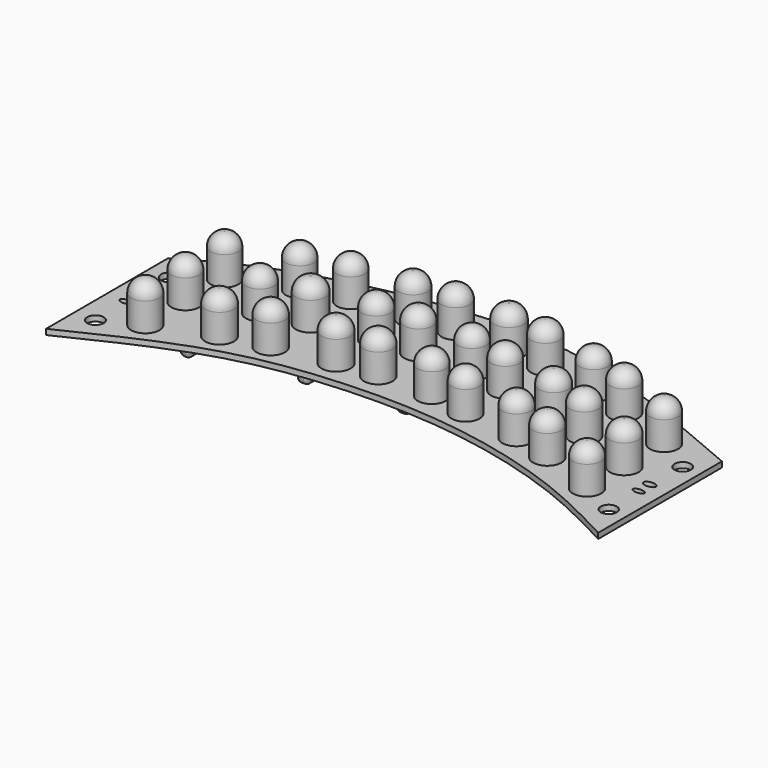
from build123d import *

# Parameters (mm, degrees)
F0_R     = 64.0132926817
F1_DEPTH = 216.72
F0_R_2   = 63.8223184462
F0_R_3   = 62.7506903342
F0_R_4   = 63.0561709404
F0_R_5   = 63.153313588
F0_R_6   = 63.7443266378
F0_R_7   = 67.2115799325
F0_R_8   = 65.3967181148
F0_R_9   = 64.6707154939
F0_R_10  = 65.8646527739
F0_R_11  = 64.7084062407
F0_R_12  = 65.0337248064
F0_R_13  = 64.8003596378
F0_R_14  = 64.6331271439
F0_R_15  = 64.8212250476
F0_R_16  = 63.4587258101
F0_R_17  = 63.5950119166
F0_R_18  = 66.5878138828
F0_R_19  = 64.9421695702
F0_R_20  = 63.8751616988
F0_R_21  = 63.4587109089
F0_R_22  = 65.7956149526
F0_R_23  = 64.5747254256
F0_R_24  = 64.5213564141
F0_R_25  = 64.9969866324
F0_R_26  = 64.8159164936
F0_R_27  = 64.4953220788
F0_R_28  = 64.3401263214
F0_R_29  = 65.5205805912
F0_R_30  = 64.0763019716
F0_R_31  = 37.2600106488
F0_W     = 49.1207838058
F0_H     = 429.1121587157
F0_R_32  = 36.055105936
F0_W_2   = 55.671274662
F0_H_2   = 452.7933895588
F0_R_33  = 37.6827408896
F0_W_3   = 54.6816885471
F0_H_3   = 452.2823542356
F0_W_4   = 54.1571080685
F0_H_4   = 442.9771751165
F0_W_5   = 56.7834215807
F0_H_5   = 445.480640548
F0_R_34  = 36.9780935868
F2_DEPTH = 25
F3_R     = 63
F3_2_R   = 63
F3_3_R   = 63
F3_4_R   = 63
F3_5_R   = 63
F3_6_R   = 63
F3_7_R   = 63
F3_8_R   = 63
F3_9_R   = 63
F3_10_R  = 63
F3_11_R  = 63
F3_12_R  = 63
F3_13_R  = 63
F3_14_R  = 63
F3_15_R  = 63
F3_16_R  = 63
F3_17_R  = 63
F3_18_R  = 63
F3_19_R  = 63
F3_20_R  = 63
F3_21_R  = 63
F3_22_R  = 63
F3_23_R  = 63
F3_24_R  = 63
F3_25_R  = 63
F3_26_R  = 63
F3_27_R  = 63
F3_28_R  = 63
F3_29_R  = 63
F4_R     = 61
F5_DEPTH = 90
F6_R     = 20


with BuildPart() as f1:
    # F0 (on Top) → F1 (new body)
    with BuildSketch(Plane.XY):
        with Locations((-960.2665305138, -23.0460874736)):
            Circle(F0_R)
    extrude(amount=F1_DEPTH)

    # F3#28
    f3_28_edges = [f1.edges().sort_by_distance(p)[0] for p in [
        (-1024.279823, -23.046087, 216.72),
    ]]
    fillet(f3_28_edges, radius=F3_28_R)


with BuildPart() as f1b:
    # F0 (on Top) → F1, piece 2 (new body)
    with BuildSketch(Plane.XY):
        with Locations((-959.5878720284, 202.7509510517)):
            Circle(F0_R_2)
    extrude(amount=F1_DEPTH)

    # F3#29
    f3_29_edges = [f1b.edges().sort_by_distance(p)[0] for p in [
        (-1023.41019, 202.750951, 216.72),
    ]]
    fillet(f3_29_edges, radius=F3_29_R)


with BuildPart() as f1c:
    # F0 (on Top) → F1, piece 3 (new body)
    with BuildSketch(Plane.XY):
        with Locations((-960.2665305138, 425.6908893585)):
            Circle(F0_R_3)
    extrude(amount=F1_DEPTH)

    # F4
    f4_edges = [f1c.edges().sort_by_distance(p)[0] for p in [
        (-1023.017221, 425.690889, 216.72),
    ]]
    fillet(f4_edges, radius=F4_R)


with BuildPart() as f1d:
    # F0 (on Top) → F1, piece 4 (new body)
    with BuildSketch(Plane.XY):
        with Locations((-701.9975185394, 527.8154015541)):
            Circle(F0_R_4)
    extrude(amount=F1_DEPTH)

    # F3#26
    f3_26_edges = [f1d.edges().sort_by_distance(p)[0] for p in [
        (-765.053689, 527.815402, 216.72),
    ]]
    fillet(f3_26_edges, radius=F3_26_R)


with BuildPart() as f1e:
    # F0 (on Top) → F1, piece 5 (new body)
    with BuildSketch(Plane.XY):
        with Locations((-508.1584453583, 574.523627758)):
            Circle(F0_R_5)
    extrude(amount=F1_DEPTH)

    # F3#23
    f3_23_edges = [f1e.edges().sort_by_distance(p)[0] for p in [
        (-571.311759, 574.523628, 216.72),
    ]]
    fillet(f3_23_edges, radius=F3_23_R)


with BuildPart() as f1f:
    # F0 (on Top) → F1, piece 6 (new body)
    with BuildSketch(Plane.XY):
        with Locations((-700.8298039436, 301.2806475163)):
            Circle(F0_R_6)
    extrude(amount=F1_DEPTH)

    # F3#25
    f3_25_edges = [f1f.edges().sort_by_distance(p)[0] for p in [
        (-764.574131, 301.280648, 216.72),
    ]]
    fillet(f3_25_edges, radius=F3_25_R)


with BuildPart() as f1g:
    # F0 (on Top) → F1, piece 7 (new body)
    with BuildSketch(Plane.XY):
        with Locations((-509.3261599541, 349.1565585136)):
            Circle(F0_R_7)
    extrude(amount=F1_DEPTH)

    # F3#22
    f3_22_edges = [f1g.edges().sort_by_distance(p)[0] for p in [
        (-576.53774, 349.156559, 216.72),
    ]]
    fillet(f3_22_edges, radius=F3_22_R)


with BuildPart() as f1h:
    # F0 (on Top) → F1, piece 8 (new body)
    with BuildSketch(Plane.XY):
        with Locations((-702.1841406822, 74.4799748063)):
            Circle(F0_R_8)
    extrude(amount=F1_DEPTH)

    # F3#27
    f3_27_edges = [f1h.edges().sort_by_distance(p)[0] for p in [
        (-767.580859, 74.479975, 216.72),
    ]]
    fillet(f3_27_edges, radius=F3_27_R)


with BuildPart() as f1i:
    # F0 (on Top) → F1, piece 9 (new body)
    with BuildSketch(Plane.XY):
        with Locations((-508.9289546013, 122.3558858037)):
            Circle(F0_R_9)
    extrude(amount=F1_DEPTH)

    # F3#24
    f3_24_edges = [f1i.edges().sort_by_distance(p)[0] for p in [
        (-573.59967, 122.355886, 216.72),
    ]]
    fillet(f3_24_edges, radius=F3_24_R)


with BuildPart() as f1j:
    # F0 (on Top) → F1, piece 10 (new body)
    with BuildSketch(Plane.XY):
        with Locations((-251.5411376953, 170.660585165)):
            Circle(F0_R_10)
    extrude(amount=F1_DEPTH)

    # F3#21
    f3_21_edges = [f1j.edges().sort_by_distance(p)[0] for p in [
        (-317.40579, 170.660585, 216.72),
    ]]
    fillet(f3_21_edges, radius=F3_21_R)


with BuildPart() as f1k:
    # F0 (on Top) → F1, piece 11 (new body)
    with BuildSketch(Plane.XY):
        with Locations((-251.2779831886, 397.9750573635)):
            Circle(F0_R_11)
    extrude(amount=F1_DEPTH)

    # F3#20
    f3_20_edges = [f1k.edges().sort_by_distance(p)[0] for p in [
        (-315.986389, 397.975057, 216.72),
    ]]
    fillet(f3_20_edges, radius=F3_20_R)


with BuildPart() as f1l:
    # F0 (on Top) → F1, piece 12 (new body)
    with BuildSketch(Plane.XY):
        with Locations((-251.2779831886, 606.0364246368)):
            Circle(F0_R_12)
    extrude(amount=F1_DEPTH)

    # F3#2
    f3_2_edges = [f1l.edges().sort_by_distance(p)[0] for p in [
        (-316.311708, 606.036425, 216.72),
    ]]
    fillet(f3_2_edges, radius=F3_2_R)


with BuildPart() as f1m:
    # F0 (on Top) → F1, piece 13 (new body)
    with BuildSketch(Plane.XY):
        with Locations((-72.3452046514, 623.7216591835)):
            Circle(F0_R_13)
    extrude(amount=F1_DEPTH)

    # F3
    f3_edges = [f1m.edges().sort_by_distance(p)[0] for p in [
        (-137.145564, 623.721659, 216.72),
    ]]
    fillet(f3_edges, radius=F3_R)


with BuildPart() as f1n:
    # F0 (on Top) → F1, piece 14 (new body)
    with BuildSketch(Plane.XY):
        with Locations((-73.3855068684, 413.5796427727)):
            Circle(F0_R_14)
    extrude(amount=F1_DEPTH)

    # F3#19
    f3_19_edges = [f1n.edges().sort_by_distance(p)[0] for p in [
        (-138.018634, 413.579643, 216.72),
    ]]
    fillet(f3_19_edges, radius=F3_19_R)


with BuildPart() as f1o:
    # F0 (on Top) → F1, piece 15 (new body)
    with BuildSketch(Plane.XY):
        with Locations((-73.5239833593, 186.8439465761)):
            Circle(F0_R_15)
    extrude(amount=F1_DEPTH)

    # F3#18
    f3_18_edges = [f1o.edges().sort_by_distance(p)[0] for p in [
        (-138.345208, 186.843947, 216.72),
    ]]
    fillet(f3_18_edges, radius=F3_18_R)


with BuildPart() as f1p:
    # F0 (on Top) → F1, piece 16 (new body)
    with BuildSketch(Plane.XY):
        with Locations((169.0059900284, 186.7927163839)):
            Circle(F0_R_16)
    extrude(amount=F1_DEPTH)

    # F3#17
    f3_17_edges = [f1p.edges().sort_by_distance(p)[0] for p in [
        (105.547264, 186.792716, 216.72),
    ]]
    fillet(f3_17_edges, radius=F3_17_R)


with BuildPart() as f1q:
    # F0 (on Top) → F1, piece 17 (new body)
    with BuildSketch(Plane.XY):
        with Locations((169.0059900284, 414.6199226379)):
            Circle(F0_R_17)
    extrude(amount=F1_DEPTH)

    # F3#16
    f3_16_edges = [f1q.edges().sort_by_distance(p)[0] for p in [
        (105.410978, 414.619923, 216.72),
    ]]
    fillet(f3_16_edges, radius=F3_16_R)


with BuildPart() as f1r:
    # F0 (on Top) → F1, piece 18 (new body)
    with BuildSketch(Plane.XY):
        with Locations((169.0059900284, 623.7216591835)):
            Circle(F0_R_18)
    extrude(amount=F1_DEPTH)

    # F3#3
    f3_3_edges = [f1r.edges().sort_by_distance(p)[0] for p in [
        (102.418176, 623.721659, 216.72),
    ]]
    fillet(f3_3_edges, radius=F3_3_R)


with BuildPart() as f1s:
    # F0 (on Top) → F1, piece 19 (new body)
    with BuildSketch(Plane.XY):
        with Locations((345.8581864834, 608.117043972)):
            Circle(F0_R_19)
    extrude(amount=F1_DEPTH)

    # F3#4
    f3_4_edges = [f1s.edges().sort_by_distance(p)[0] for p in [
        (280.916017, 608.117044, 216.72),
    ]]
    fillet(f3_4_edges, radius=F3_4_R)


with BuildPart() as f1t:
    # F0 (on Top) → F1, piece 20 (new body)
    with BuildSketch(Plane.XY):
        with Locations((345.8581864834, 381.3301026821)):
            Circle(F0_R_20)
    extrude(amount=F1_DEPTH)

    # F3#15
    f3_15_edges = [f1t.edges().sort_by_distance(p)[0] for p in [
        (281.983025, 381.330103, 216.72),
    ]]
    fillet(f3_15_edges, radius=F3_15_R)


with BuildPart() as f1u:
    # F0 (on Top) → F1, piece 21 (new body)
    with BuildSketch(Plane.XY):
        with Locations((346.898496151, 155.5835008621)):
            Circle(F0_R_21)
    extrude(amount=F1_DEPTH)

    # F3#14
    f3_14_edges = [f1u.edges().sort_by_distance(p)[0] for p in [
        (283.439785, 155.583501, 216.72),
    ]]
    fillet(f3_14_edges, radius=F3_14_R)


with BuildPart() as f1v:
    # F0 (on Top) → F1, piece 22 (new body)
    with BuildSketch(Plane.XY):
        with Locations((604.2323112488, 332.6369524002)):
            Circle(F0_R_22)
    extrude(amount=F1_DEPTH)

    # F3#10
    f3_10_edges = [f1v.edges().sort_by_distance(p)[0] for p in [
        (538.436696, 332.636952, 216.72),
    ]]
    fillet(f3_10_edges, radius=F3_10_R)


with BuildPart() as f1w:
    # F0 (on Top) → F1, piece 23 (new body)
    with BuildSketch(Plane.XY):
        with Locations((605.1070690155, 557.4581027031)):
            Circle(F0_R_23)
    extrude(amount=F1_DEPTH)

    # F3#5
    f3_5_edges = [f1w.edges().sort_by_distance(p)[0] for p in [
        (540.532344, 557.458103, 216.72),
    ]]
    fillet(f3_5_edges, radius=F3_5_R)


with BuildPart() as f1x:
    # F0 (on Top) → F1, piece 24 (new body)
    with BuildSketch(Plane.XY):
        with Locations((781.8147540092, 509.344637394)):
            Circle(F0_R_24)
    extrude(amount=F1_DEPTH)

    # F3#6
    f3_6_edges = [f1x.edges().sort_by_distance(p)[0] for p in [
        (717.293398, 509.344637, 216.72),
    ]]
    fillet(f3_6_edges, radius=F3_6_R)


with BuildPart() as f1y:
    # F0 (on Top) → F1, piece 25 (new body)
    with BuildSketch(Plane.XY):
        with Locations((781.4246416092, 283.6807370186)):
            Circle(F0_R_25)
    extrude(amount=F1_DEPTH)

    # F3#9
    f3_9_edges = [f1y.edges().sort_by_distance(p)[0] for p in [
        (716.427655, 283.680737, 216.72),
    ]]
    fillet(f3_9_edges, radius=F3_9_R)


with BuildPart() as f1z:
    # F0 (on Top) → F1, piece 26 (new body)
    with BuildSketch(Plane.XY):
        with Locations((604.628264904, 122.5485280156)):
            Circle(F0_R_26)
    extrude(amount=F1_DEPTH)

    # F3#13
    f3_13_edges = [f1z.edges().sort_by_distance(p)[0] for p in [
        (539.812348, 122.548528, 216.72),
    ]]
    fillet(f3_13_edges, radius=F3_13_R)


with BuildPart() as f1ba:
    # F0 (on Top) → F1, piece 27 (new body)
    with BuildSketch(Plane.XY):
        with Locations((782.846570015, 73.4525769949)):
            Circle(F0_R_27)
    extrude(amount=F1_DEPTH)

    # F3#11
    f3_11_edges = [f1ba.edges().sort_by_distance(p)[0] for p in [
        (718.351248, 73.452577, 216.72),
    ]]
    fillet(f3_11_edges, radius=F3_11_R)


with BuildPart() as f1bb:
    # F0 (on Top) → F1, piece 28 (new body)
    with BuildSketch(Plane.XY):
        with Locations((1040.1153564453, -23.2549216598)):
            Circle(F0_R_28)
    extrude(amount=F1_DEPTH)

    # F3#12
    f3_12_edges = [f1bb.edges().sort_by_distance(p)[0] for p in [
        (975.77523, -23.254922, 216.72),
    ]]
    fillet(f3_12_edges, radius=F3_12_R)


with BuildPart() as f1bc:
    # F0 (on Top) → F1, piece 29 (new body)
    with BuildSketch(Plane.XY):
        with Locations((1040.1092767715, 187.3551756144)):
            Circle(F0_R_29)
    extrude(amount=F1_DEPTH)

    # F3#8
    f3_8_edges = [f1bc.edges().sort_by_distance(p)[0] for p in [
        (974.588696, 187.355176, 216.72),
    ]]
    fillet(f3_8_edges, radius=F3_8_R)


with BuildPart() as f1bd:
    # F0 (on Top) → F1, piece 30 (new body)
    with BuildSketch(Plane.XY):
        with Locations((1040.0507450104, 412.9097163677)):
            Circle(F0_R_30)
    extrude(amount=F1_DEPTH)

    # F3#7
    f3_7_edges = [f1bd.edges().sort_by_distance(p)[0] for p in [
        (975.974443, 412.909716, 216.72),
    ]]
    fillet(f3_7_edges, radius=F3_7_R)


with BuildPart() as f2:
    # F0 (on Top) → F2 (new body)
    with BuildSketch(Plane.XY):
        with BuildLine():
            add(Edge.make_bspline(
                [(1283.8407128121, 435.5341792107), (1016.3868585252, 550.2366360308), (513.2514349423, 766.1102636237), (-132.8899963334, 793.4755415169), (-844.27654859, 637.5283805298), (-1104.1965588996, 490.5331890379), (-1217.0550823212, 426.706880331)],
                knots=[0, 0, 0, 0, 0.2846022646, 0.5355654988, 0.7983478195, 1, 1, 1, 1], degree=3))
            add(Edge.make_bspline(
                [(-1217.0550823212, 426.706880331), (-1217.0550823212, 195.2355404695), (-1216.3055092356, -33.1953360732), (-1216.3055092356, -264.6666759348)],
                knots=[0, 0, 0, 0, 691.3739626016, 691.3739626016, 691.3739626016, 691.3739626016], degree=3))
            add(Edge.make_bspline(
                [(-1216.3055092356, -264.6666759348), (-1036.0889312922, -176.9309703822), (-690.8329842602, -8.8483530405), (-203.4240123284, 75.3830380332), (371.6610974506, 73.6624899686), (917.726661549, -72.2231181153), (1168.582901066, -204.0827587582), (1283.8407128121, -264.6666759348)],
                knots=[0, 0, 0, 0, 0.2115711088, 0.40532444, 0.6153514834, 0.8232703065, 1, 1, 1, 1], degree=3))
            add(Edge.make_bspline(
                [(1283.8407128121, -264.6666759348), (1283.8407128121, -30.2529031134), (1283.8407128121, 201.1204063892), (1283.8407128121, 435.5341792107)],
                knots=[0, 0, 0, 0, 700.2008551455, 700.2008551455, 700.2008551455, 700.2008551455], degree=3))
        make_face()
        with Locations((-1121.3799715042, -104.0024831891)):
            Circle(F0_R_31, mode=Mode.SUBTRACT)
        with BuildLine():
            ThreePointArc((-915.0942446483, 44.475439601), (-962.2314730284, -105.392746685), (-1009.3647386743, 44.4766859208))
            add(Edge.make_bspline(
                [(-1009.3647386743, 44.4766859208), (-977.942196258, 44.4749016149), (-946.5167870646, 44.4772239068), (-915.0942446483, 44.475439601)],
                knots=[0, 0, 0, 0, 94.2704940343, 94.2704940343, 94.2704940343, 94.2704940343], degree=3))
        make_face(mode=Mode.SUBTRACT)
        with BuildLine():
            add(Edge.make_bspline(
                [(-1100.7257699966, 74.1642266512), (-1100.7257699966, 98.4071283266), (-1140.0913000107, 86.2856774889), (-1179.4568300247, 74.1642266512), (-1140.0913000107, 62.0427758135), (-1100.7257699966, 49.9213249758), (-1100.7257699966, 74.1642266512)],
                knots=[0, 0, 0, 2.0943951024, 2.0943951024, 4.1887902048, 4.1887902048, 6.2831853072, 6.2831853072, 6.2831853072], degree=2, weights=[1, 0.5, 1, 0.5, 1, 0.5, 1]))
        make_face(mode=Mode.SUBTRACT)
        with BuildLine():
            ThreePointArc((-657.7673292866, 141.7385384937), (-702.8556517011, -6.1185152341), (-745.4741266331, 142.4692727893))
            add(Edge.make_bspline(
                [(-745.4741266331, 142.4692727893), (-716.2643594014, 142.2289448193), (-686.9770965182, 141.9788664637), (-657.7673292866, 141.7385384937)],
                knots=[0, 0, 0, 0, 87.7098413714, 87.7098413714, 87.7098413714, 87.7098413714], degree=3))
        make_face(mode=Mode.SUBTRACT)
        with BuildLine():
            add(Edge.make_bspline(
                [(-1152.338385582, 137.1491253376), (-1152.338385582, 112.6549690962), (-1115.597307682, 124.9020472169), (-1078.8562297821, 137.1491253376), (-1115.597307682, 149.3962034583), (-1152.338385582, 161.643281579), (-1152.338385582, 137.1491253376)],
                knots=[0, 0, 0, 2.0943951024, 2.0943951024, 4.1887902048, 4.1887902048, 6.2831853072, 6.2831853072, 6.2831853072], degree=2, weights=[1, 0.5, 1, 0.5, 1, 0.5, 1]))
        make_face(mode=Mode.SUBTRACT)
        with BuildLine():
            ThreePointArc((-910.9272825709, 267.2964743901), (-958.8842479073, 121.9209908731), (-1009.3647386743, 266.4395771657))
            add(Edge.make_bspline(
                [(-1009.3647386743, 266.4395771657), (-976.582243434, 266.7248772299), (-943.7097778112, 267.011174326), (-910.9272825709, 267.2964743901)],
                knots=[0, 0, 0, 0, 98.4411856743, 98.4411856743, 98.4411856743, 98.4411856743], degree=3))
        make_face(mode=Mode.SUBTRACT)
        with Locations((-831.3868641853, 249.4064755738)):
            Rectangle(F0_W, F0_H, mode=Mode.SUBTRACT)
        with BuildLine():
            ThreePointArc((-463.4454991508, 190.7046285699), (-508.8612271714, 40.256611931), (-554.52511605, 190.6294928461))
            add(Edge.make_bspline(
                [(-554.52511605, 190.6294928461), (-524.18759384, 190.6537494288), (-493.7830213609, 190.6803719872), (-463.4454991508, 190.7046285699)],
                knots=[0, 0, 0, 0, 91.0796478906, 91.0796478906, 91.0796478906, 91.0796478906], degree=3))
        make_face(mode=Mode.SUBTRACT)
        with BuildLine():
            ThreePointArc((-209.3161905169, 240.1476238692), (-251.3872944521, 89.3502472962), (-294.0287275499, 239.9873434942))
            add(Edge.make_bspline(
                [(-294.0287275499, 239.9873434942), (-265.8127864446, 240.0424099425), (-237.5321316222, 240.0925574209), (-209.3161905169, 240.1476238692)],
                knots=[0, 0, 0, 0, 84.7126886622, 84.7126886622, 84.7126886622, 84.7126886622], degree=3))
        make_face(mode=Mode.SUBTRACT)
        with BuildLine():
            ThreePointArc((-34.1275583459, 256.7837082165), (-72.9801149483, 106.5734490736), (-113.8644940546, 256.2434549245))
            add(Edge.make_bspline(
                [(-34.1275583459, 256.7837082165), (-60.6995365278, 256.6102426127), (-87.2925158727, 256.4169205282), (-113.8644940546, 256.2434549245)],
                knots=[0, 0, 0, 0, 79.7387659162, 79.7387659162, 79.7387659162, 79.7387659162], degree=3))
        make_face(mode=Mode.SUBTRACT)
        with Locations((1201.4852762222, -101.975813508)):
            Circle(F0_R_32, mode=Mode.SUBTRACT)
        with BuildLine():
            ThreePointArc((1084.4869911079, 44.8468718824), (1039.508705346, -104.5342438811), (996.7652024008, 45.5016081437))
            add(Edge.make_bspline(
                [(996.7652024008, 45.5016081437), (1025.9789021504, 45.2845050115), (1055.2732913583, 45.0639750146), (1084.4869911079, 44.8468718824)],
                knots=[0, 0, 0, 0, 87.7242320773, 87.7242320773, 87.7242320773, 87.7242320773], degree=3))
        make_face(mode=Mode.SUBTRACT)
        with BuildLine():
            ThreePointArc((645.7842256927, 190.4766901922), (605.0272080715, 43.1263071358), (562.7919826376, 190.0598145628))
            add(Edge.make_bspline(
                [(562.7919826376, 190.0598145628), (590.4342860422, 190.2026184906), (618.1419222881, 190.3338862645), (645.7842256927, 190.4766901922)],
                knots=[0, 0, 0, 0, 82.9932900457, 82.9932900457, 82.9932900457, 82.9932900457], degree=3))
        make_face(mode=Mode.SUBTRACT)
        with BuildLine():
            ThreePointArc((211.4439205163, 254.7628826274), (168.7622930835, 106.6624346231), (126.982270515, 255.0197523853))
            add(Edge.make_bspline(
                [(126.982270515, 255.0197523853), (155.1115548783, 254.9325242294), (183.314636153, 254.8501107833), (211.4439205163, 254.7628826274)],
                knots=[0, 0, 0, 0, 84.4620406042, 84.4620406042, 84.4620406042, 84.4620406042], degree=3))
        make_face(mode=Mode.SUBTRACT)
        with BuildLine():
            ThreePointArc((393.5392336861, 223.8527258276), (345.113325083, 74.2062757682), (299.4000117474, 224.703523661))
            add(Edge.make_bspline(
                [(299.4000117474, 224.703523661), (330.7772096941, 224.4365333762), (362.1620357394, 224.1197161123), (393.5392336861, 223.8527258276)],
                knots=[0, 0, 0, 0, 94.143066469, 94.143066469, 94.143066469, 94.143066469], degree=3))
        make_face(mode=Mode.SUBTRACT)
        with BuildLine():
            ThreePointArc((825.7117021797, 141.4856976419), (783.1109044233, -6.9579645266), (739.5350771418, 141.2024083273))
            add(Edge.make_bspline(
                [(825.7117021797, 141.4856976419), (797.0133055911, 141.3911026909), (768.2334737304, 141.2970032782), (739.5350771418, 141.2024083273)],
                knots=[0, 0, 0, 0, 86.1770906666, 86.1770906666, 86.1770906666, 86.1770906666], degree=3))
        make_face(mode=Mode.SUBTRACT)
        with BuildLine():
            add(Edge.make_bspline(
                [(1222.348690033, 73.8826990128), (1222.348690033, 95.9450755784), (1183.3786964417, 84.9138872956), (1144.4087028503, 73.8826990128), (1183.3786964417, 62.85151073), (1222.348690033, 51.8203224472), (1222.348690033, 73.8826990128)],
                knots=[0, 0, 0, 2.0943951024, 2.0943951024, 4.1887902048, 4.1887902048, 6.2831853072, 6.2831853072, 6.2831853072], degree=2, weights=[1, 0.5, 1, 0.5, 1, 0.5, 1]))
        make_face(mode=Mode.SUBTRACT)
        with Locations((908.7335765362, 238.4223788977)):
            Rectangle(F0_W_2, F0_H_2, mode=Mode.SUBTRACT)
        with BuildLine():
            ThreePointArc((996.0892186715, 118.0308835056), (1039.8264120947, 269.4742536601), (1084.6058689733, 118.3357850495))
            add(Edge.make_bspline(
                [(996.0892186715, 118.0308835056), (1025.566915199, 118.1321132733), (1055.1281724458, 118.2345552818), (1084.6058689733, 118.3357850495)],
                knots=[0, 0, 0, 0, 88.5171754272, 88.5171754272, 88.5171754272, 88.5171754272], degree=3))
        make_face(mode=Mode.SUBTRACT)
        with BuildLine():
            add(Edge.make_bspline(
                [(1223.5858440399, 138.21400702), (1223.5858440399, 166.0702869689), (1180.9045672417, 152.1421469944), (1138.2232904434, 138.21400702), (1180.9045672417, 124.2858670456), (1223.5858440399, 110.3577270711), (1223.5858440399, 138.21400702)],
                knots=[0, 0, 0, 2.0943951024, 2.0943951024, 4.1887902048, 4.1887902048, 6.2831853072, 6.2831853072, 6.2831853072], degree=2, weights=[1, 0.5, 1, 0.5, 1, 0.5, 1]))
        make_face(mode=Mode.SUBTRACT)
        with Locations((-1121.6667890549, 314.9181604385)):
            Circle(F0_R_33, mode=Mode.SUBTRACT)
        with BuildLine():
            ThreePointArc((-739.4739038097, 232.6260775198), (-700.4790957422, 380.063218175), (-662.7984683943, 232.2847494339))
            add(Edge.make_bspline(
                [(-739.4739038097, 232.6260775198), (-713.9170139002, 232.5399488686), (-688.3553583039, 232.3708780851), (-662.7984683943, 232.2847494339)],
                knots=[0, 0, 0, 0, 76.676195139, 76.676195139, 76.676195139, 76.676195139], degree=3))
        make_face(mode=Mode.SUBTRACT)
        with BuildLine():
            ThreePointArc((-1003.019948857, 361.2967795257), (-957.8935634497, 507.6725312157), (-914.2662717073, 360.8430016314))
            add(Edge.make_bspline(
                [(-1003.019948857, 361.2967795257), (-973.4568414704, 361.1503362399), (-943.8293790939, 360.9894449172), (-914.2662717073, 360.8430016314)],
                knots=[0, 0, 0, 0, 88.7548371751, 88.7548371751, 88.7548371751, 88.7548371751], degree=3))
        make_face(mode=Mode.SUBTRACT)
        with BuildLine():
            ThreePointArc((-469.178255851, 417.9113689398), (-508.6304744528, 269.5412698921), (-550.6694132107, 417.1992919299))
            add(Edge.make_bspline(
                [(-550.6694132107, 417.1992919299), (-523.5184168236, 417.4484706508), (-496.3292522381, 417.6621902189), (-469.178255851, 417.9113689398)],
                knots=[0, 0, 0, 0, 81.4942683966, 81.4942683966, 81.4942683966, 81.4942683966], degree=3))
        make_face(mode=Mode.SUBTRACT)
        with Locations((-380.0313025713, 362.9404678941)):
            Rectangle(F0_W_3, F0_H_3, mode=Mode.SUBTRACT)
        with BuildLine():
            ThreePointArc((-292.307542918, 327.4755834133), (-251.5386379239, 479.5442467548), (-209.7987031647, 327.7392408057))
            add(Edge.make_bspline(
                [(-292.307542918, 327.4755834133), (-264.7999959574, 327.5488474484), (-237.3062501252, 327.6659767706), (-209.7987031647, 327.7392408057)],
                knots=[0, 0, 0, 0, 82.5092610115, 82.5092610115, 82.5092610115, 82.5092610115], degree=3))
        make_face(mode=Mode.SUBTRACT)
        with BuildLine():
            ThreePointArc((-29.6115466299, 483.2603946628), (-73.015831929, 331.2909429447), (-117.7837572593, 482.8642885548))
            add(Edge.make_bspline(
                [(-29.6115466299, 483.2603946628), (-58.9746527444, 483.1281015509), (-88.4206511448, 482.9965816667), (-117.7837572593, 482.8642885548)],
                knots=[0, 0, 0, 0, 88.1731003613, 88.1731003613, 88.1731003613, 88.1731003613], degree=3))
        make_face(mode=Mode.SUBTRACT)
        with BuildLine():
            ThreePointArc((-750.1988851493, 461.8005398635), (-702.0475405571, 609.5548119073), (-653.715389913, 461.8595848099))
            add(Edge.make_bspline(
                [(-750.1988851493, 461.8005398635), (-718.0596701342, 461.8208029502), (-685.8546049281, 461.8393217232), (-653.715389913, 461.8595848099)],
                knots=[0, 0, 0, 0, 96.4835133031, 96.4835133031, 96.4835133031, 96.4835133031], degree=3))
        make_face(mode=Mode.SUBTRACT)
        with BuildLine():
            ThreePointArc((-554.7658118633, 507.577326019), (-509.2762654777, 656.0883530211), (-459.7339696103, 508.8797089414))
            add(Edge.make_bspline(
                [(-554.7658118633, 507.577326019), (-523.0991250825, 508.0310374704), (-491.4006563911, 508.4259974901), (-459.7339696103, 508.8797089414)],
                knots=[0, 0, 0, 0, 95.0407662179, 95.0407662179, 95.0407662179, 95.0407662179], degree=3))
        make_face(mode=Mode.SUBTRACT)
        with BuildLine():
            ThreePointArc((-295.8527599181, 537.6478929338), (-251.5989287396, 689.5823752298), (-206.1644091517, 537.9967792309))
            add(Edge.make_bspline(
                [(-295.8527599181, 537.6478929338), (-265.9840522739, 537.7627638074), (-236.0331167959, 537.8819083574), (-206.1644091517, 537.9967792309)],
                knots=[0, 0, 0, 0, 89.689029345, 89.689029345, 89.689029345, 89.689029345], degree=3))
        make_face(mode=Mode.SUBTRACT)
        with BuildLine():
            ThreePointArc((9.198949988, 622.7683085378), (-2.024393632, 582.4258776691), (-31.7889639752, 552.9717519361))
            add(Edge.make_bspline(
                [(-31.7889639752, 552.9717519361), (-59.4427912247, 553.3620303954), (-87.1228019384, 553.6899257918), (-114.7766291879, 554.0802042511)],
                knots=[0, 0, 0, 0, 82.9950675884, 82.9950675884, 82.9950675884, 82.9950675884], degree=3))
            ThreePointArc((-114.7766291879, 554.0802042511), (-111.8669117457, 695.0546298328), (9.198949988, 622.7683085378))
        make_face(mode=Mode.SUBTRACT)
        with BuildLine():
            ThreePointArc((392.451521857, 449.4366821381), (345.3654356991, 298.8122121183), (300.0815338061, 449.9882641496))
            add(Edge.make_bspline(
                [(300.0815338061, 449.9882641496), (330.853856141, 449.8118100576), (361.6791995221, 449.6131362301), (392.451521857, 449.4366821381)],
                knots=[0, 0, 0, 0, 92.3716349062, 92.3716349062, 92.3716349062, 92.3716349062], degree=3))
        make_face(mode=Mode.SUBTRACT)
        with Locations((474.9377518892, 368.2261183858)):
            Rectangle(F0_W_4, F0_H_4, mode=Mode.SUBTRACT)
        with BuildLine():
            ThreePointArc((565.8127825908, 263.0761305622), (602.6131254547, 413.325437627), (642.209370826, 263.7886299144))
            add(Edge.make_bspline(
                [(565.8127825908, 263.0761305622), (591.25988519, 263.3051736449), (616.7622682268, 263.5595868317), (642.209370826, 263.7886299144)],
                knots=[0, 0, 0, 0, 76.399910663, 76.399910663, 76.399910663, 76.399910663], degree=3))
        make_face(mode=Mode.SUBTRACT)
        with Locations((37.5906607783, 400.0279882637)):
            Rectangle(F0_W_5, F0_H_5, mode=Mode.SUBTRACT)
        with BuildLine():
            ThreePointArc((128.0998907459, 344.5334538456), (168.9017961624, 495.7704692161), (210.0919302601, 344.6387281528))
            add(Edge.make_bspline(
                [(210.0919302601, 344.6387281528), (182.7622488396, 344.5917712101), (155.4295721664, 344.5804107883), (128.0998907459, 344.5334538456)],
                knots=[0, 0, 0, 0, 81.9921070981, 81.9921070981, 81.9921070981, 81.9921070981], degree=3))
        make_face(mode=Mode.SUBTRACT)
        with BuildLine():
            ThreePointArc((827.9769505254, 351.3887411154), (781.1851469024, 201.5136272575), (735.2678210334, 351.6589629335))
            add(Edge.make_bspline(
                [(735.2678210334, 351.6589629335), (766.1691505054, 351.5900164908), (797.0756210534, 351.4576875582), (827.9769505254, 351.3887411154)],
                knots=[0, 0, 0, 0, 92.7095233026, 92.7095233026, 92.7095233026, 92.7095233026], degree=3))
        make_face(mode=Mode.SUBTRACT)
        with Locations((1201.8840312958, 315.8702850342)):
            Circle(F0_R_34, mode=Mode.SUBTRACT)
        with BuildLine():
            ThreePointArc((737.179776608, 440.6494267053), (781.7433665224, 591.2672111023), (826.5693858083, 440.7273209811))
            add(Edge.make_bspline(
                [(737.179776608, 440.6494267053), (766.9494045039, 440.6749890242), (796.7997579123, 440.7017586622), (826.5693858083, 440.7273209811)],
                knots=[0, 0, 0, 0, 89.3896431389, 89.3896431389, 89.3896431389, 89.3896431389], degree=3))
        make_face(mode=Mode.SUBTRACT)
        with BuildLine():
            ThreePointArc((997.2210304956, 344.5947110564), (1040.1376475604, 493.5404601572), (1082.7331025118, 344.5025474874))
            add(Edge.make_bspline(
                [(997.2210304956, 344.5947110564), (1025.6989265645, 344.5635988829), (1054.2552064429, 344.5336596608), (1082.7331025118, 344.5025474874)],
                knots=[0, 0, 0, 0, 85.5121216824, 85.5121216824, 85.5121216824, 85.5121216824], degree=3))
        make_face(mode=Mode.SUBTRACT)
        with BuildLine():
            ThreePointArc((126.416261006, 553.2186736167), (169.2061808625, 706.0898321368), (211.2525114843, 553.0124842703))
            add(Edge.make_bspline(
                [(126.416261006, 553.2186736167), (154.6779095353, 553.1469477283), (182.990862955, 553.0842101587), (211.2525114843, 553.0124842703)],
                knots=[0, 0, 0, 0, 84.8365010433, 84.8365010433, 84.8365010433, 84.8365010433], degree=3))
        make_face(mode=Mode.SUBTRACT)
        with BuildLine():
            ThreePointArc((301.9219205525, 536.4845959923), (344.4461529394, 692.1385247301), (392.1766180621, 538.001382643))
            add(Edge.make_bspline(
                [(301.9219205525, 536.4845959923), (331.9824122671, 536.9899782005), (362.1161263475, 537.4960004349), (392.1766180621, 538.001382643)],
                knots=[0, 0, 0, 0, 90.2674418841, 90.2674418841, 90.2674418841, 90.2674418841], degree=3))
        make_face(mode=Mode.SUBTRACT)
        with BuildLine():
            ThreePointArc((564.68211074, 488.6963134616), (604.5547846607, 637.2205994874), (646.4803340903, 489.2626934125))
            add(Edge.make_bspline(
                [(564.68211074, 488.6963134616), (591.9341501252, 488.8940853296), (619.2282947051, 489.0649215444), (646.4803340903, 489.2626934125)],
                knots=[0, 0, 0, 0, 81.8001841656, 81.8001841656, 81.8001841656, 81.8001841656], degree=3))
        make_face(mode=Mode.SUBTRACT)
        with Locations((37.5906607783, 400.0279882637)):
            Rectangle(F0_W_5, F0_H_5)
        with Locations((908.7335765362, 238.4223788977)):
            Rectangle(F0_W_2, F0_H_2)
        with Locations((-380.0313025713, 362.9404678941)):
            Rectangle(F0_W_3, F0_H_3)
        with Locations((474.9377518892, 368.2261183858)):
            Rectangle(F0_W_4, F0_H_4)
        with BuildLine():
            add(Edge.make_bspline(
                [(301.9219205525, 536.4845959923), (331.9824122671, 536.9899782005), (362.1161263475, 537.4960004349), (392.1766180621, 538.001382643)],
                knots=[0, 0, 0, 0, 90.2674418841, 90.2674418841, 90.2674418841, 90.2674418841], degree=3))
            ThreePointArc((392.1766180621, 538.001382643), (344.4461529394, 692.1385247301), (301.9219205525, 536.4845959923))
        make_face()
        with Locations((345.8581864834, 608.117043972)):
            Circle(F0_R_19, mode=Mode.SUBTRACT)
        with Locations((-831.3868641853, 249.4064755738)):
            Rectangle(F0_W, F0_H)
        with BuildLine():
            add(Edge.make_bspline(
                [(126.416261006, 553.2186736167), (154.6779095353, 553.1469477283), (182.990862955, 553.0842101587), (211.2525114843, 553.0124842703)],
                knots=[0, 0, 0, 0, 84.8365010433, 84.8365010433, 84.8365010433, 84.8365010433], degree=3))
            ThreePointArc((211.2525114843, 553.0124842703), (169.2061808625, 706.0898321368), (126.416261006, 553.2186736167))
        make_face()
        with Locations((169.0059900284, 623.7216591835)):
            Circle(F0_R_18, mode=Mode.SUBTRACT)
        with BuildLine():
            add(Edge.make_bspline(
                [(-295.8527599181, 537.6478929338), (-265.9840522739, 537.7627638074), (-236.0331167959, 537.8819083574), (-206.1644091517, 537.9967792309)],
                knots=[0, 0, 0, 0, 89.689029345, 89.689029345, 89.689029345, 89.689029345], degree=3))
            ThreePointArc((-206.1644091517, 537.9967792309), (-251.5989287396, 689.5823752298), (-295.8527599181, 537.6478929338))
        make_face()
        with Locations((-251.2779831886, 606.0364246368)):
            Circle(F0_R_12, mode=Mode.SUBTRACT)
        with BuildLine():
            add(Edge.make_bspline(
                [(-29.6115466299, 483.2603946628), (-58.9746527444, 483.1281015509), (-88.4206511448, 482.9965816667), (-117.7837572593, 482.8642885548)],
                knots=[0, 0, 0, 0, 88.1731003613, 88.1731003613, 88.1731003613, 88.1731003613], degree=3))
            ThreePointArc((-117.7837572593, 482.8642885548), (-73.015831929, 331.2909429447), (-29.6115466299, 483.2603946628))
        make_face()
        with Locations((-73.3855068684, 413.5796427727)):
            Circle(F0_R_14, mode=Mode.SUBTRACT)
        with BuildLine():
            add(Edge.make_bspline(
                [(300.0815338061, 449.9882641496), (330.853856141, 449.8118100576), (361.6791995221, 449.6131362301), (392.451521857, 449.4366821381)],
                knots=[0, 0, 0, 0, 92.3716349062, 92.3716349062, 92.3716349062, 92.3716349062], degree=3))
            ThreePointArc((300.0815338061, 449.9882641496), (345.3654356991, 298.8122121183), (392.451521857, 449.4366821381))
        make_face()
        with Locations((345.8581864834, 381.3301026821)):
            Circle(F0_R_20, mode=Mode.SUBTRACT)
        with BuildLine():
            add(Edge.make_bspline(
                [(996.0892186715, 118.0308835056), (1025.566915199, 118.1321132733), (1055.1281724458, 118.2345552818), (1084.6058689733, 118.3357850495)],
                knots=[0, 0, 0, 0, 88.5171754272, 88.5171754272, 88.5171754272, 88.5171754272], degree=3))
            ThreePointArc((1084.6058689733, 118.3357850495), (1039.8264120947, 269.4742536601), (996.0892186715, 118.0308835056))
        make_face()
        with Locations((1040.1092767715, 187.3551756144)):
            Circle(F0_R_29, mode=Mode.SUBTRACT)
        with BuildLine():
            add(Edge.make_bspline(
                [(299.4000117474, 224.703523661), (330.7772096941, 224.4365333762), (362.1620357394, 224.1197161123), (393.5392336861, 223.8527258276)],
                knots=[0, 0, 0, 0, 94.143066469, 94.143066469, 94.143066469, 94.143066469], degree=3))
            ThreePointArc((299.4000117474, 224.703523661), (345.113325083, 74.2062757682), (393.5392336861, 223.8527258276))
        make_face()
        with Locations((346.898496151, 155.5835008621)):
            Circle(F0_R_21, mode=Mode.SUBTRACT)
        with BuildLine():
            add(Edge.make_bspline(
                [(-1009.3647386743, 44.4766859208), (-977.942196258, 44.4749016149), (-946.5167870646, 44.4772239068), (-915.0942446483, 44.475439601)],
                knots=[0, 0, 0, 0, 94.2704940343, 94.2704940343, 94.2704940343, 94.2704940343], degree=3))
            ThreePointArc((-1009.3647386743, 44.4766859208), (-962.2314730284, -105.392746685), (-915.0942446483, 44.475439601))
        make_face()
        with Locations((-960.2665305138, -23.0460874736)):
            Circle(F0_R, mode=Mode.SUBTRACT)
        with BuildLine():
            add(Edge.make_bspline(
                [(-554.52511605, 190.6294928461), (-524.18759384, 190.6537494288), (-493.7830213609, 190.6803719872), (-463.4454991508, 190.7046285699)],
                knots=[0, 0, 0, 0, 91.0796478906, 91.0796478906, 91.0796478906, 91.0796478906], degree=3))
            ThreePointArc((-554.52511605, 190.6294928461), (-508.8612271714, 40.256611931), (-463.4454991508, 190.7046285699))
        make_face()
        with Locations((-508.9289546013, 122.3558858037)):
            Circle(F0_R_9, mode=Mode.SUBTRACT)
        with BuildLine():
            add(Edge.make_bspline(
                [(735.2678210334, 351.6589629335), (766.1691505054, 351.5900164908), (797.0756210534, 351.4576875582), (827.9769505254, 351.3887411154)],
                knots=[0, 0, 0, 0, 92.7095233026, 92.7095233026, 92.7095233026, 92.7095233026], degree=3))
            ThreePointArc((735.2678210334, 351.6589629335), (781.1851469024, 201.5136272575), (827.9769505254, 351.3887411154))
        make_face()
        with Locations((781.4246416092, 283.6807370186)):
            Circle(F0_R_25, mode=Mode.SUBTRACT)
        with BuildLine():
            add(Edge.make_bspline(
                [(737.179776608, 440.6494267053), (766.9494045039, 440.6749890242), (796.7997579123, 440.7017586622), (826.5693858083, 440.7273209811)],
                knots=[0, 0, 0, 0, 89.3896431389, 89.3896431389, 89.3896431389, 89.3896431389], degree=3))
            ThreePointArc((826.5693858083, 440.7273209811), (781.7433665224, 591.2672111023), (737.179776608, 440.6494267053))
        make_face()
        with Locations((781.8147540092, 509.344637394)):
            Circle(F0_R_24, mode=Mode.SUBTRACT)
        with BuildLine():
            add(Edge.make_bspline(
                [(-292.307542918, 327.4755834133), (-264.7999959574, 327.5488474484), (-237.3062501252, 327.6659767706), (-209.7987031647, 327.7392408057)],
                knots=[0, 0, 0, 0, 82.5092610115, 82.5092610115, 82.5092610115, 82.5092610115], degree=3))
            ThreePointArc((-209.7987031647, 327.7392408057), (-251.5386379239, 479.5442467548), (-292.307542918, 327.4755834133))
        make_face()
        with Locations((-251.2779831886, 397.9750573635)):
            Circle(F0_R_11, mode=Mode.SUBTRACT)
        with BuildLine():
            add(Edge.make_bspline(
                [(-31.7889639752, 552.9717519361), (-59.4427912247, 553.3620303954), (-87.1228019384, 553.6899257918), (-114.7766291879, 554.0802042511)],
                knots=[0, 0, 0, 0, 82.9950675884, 82.9950675884, 82.9950675884, 82.9950675884], degree=3))
            ThreePointArc((-31.7889639752, 552.9717519361), (-2.024393632, 582.4258776691), (9.198949988, 622.7683085378))
            ThreePointArc((9.198949988, 622.7683085378), (-111.8669117457, 695.0546298328), (-114.7766291879, 554.0802042511))
        make_face()
        with Locations((-72.3452046514, 623.7216591835)):
            Circle(F0_R_13, mode=Mode.SUBTRACT)
        with BuildLine():
            add(Edge.make_bspline(
                [(-294.0287275499, 239.9873434942), (-265.8127864446, 240.0424099425), (-237.5321316222, 240.0925574209), (-209.3161905169, 240.1476238692)],
                knots=[0, 0, 0, 0, 84.7126886622, 84.7126886622, 84.7126886622, 84.7126886622], degree=3))
            ThreePointArc((-294.0287275499, 239.9873434942), (-251.3872944521, 89.3502472962), (-209.3161905169, 240.1476238692))
        make_face()
        with Locations((-251.5411376953, 170.660585165)):
            Circle(F0_R_10, mode=Mode.SUBTRACT)
        with BuildLine():
            add(Edge.make_bspline(
                [(210.0919302601, 344.6387281528), (182.7622488396, 344.5917712101), (155.4295721664, 344.5804107883), (128.0998907459, 344.5334538456)],
                knots=[0, 0, 0, 0, 81.9921070981, 81.9921070981, 81.9921070981, 81.9921070981], degree=3))
            ThreePointArc((210.0919302601, 344.6387281528), (168.9017961624, 495.7704692161), (128.0998907459, 344.5334538456))
        make_face()
        with Locations((169.0059900284, 414.6199226379)):
            Circle(F0_R_17, mode=Mode.SUBTRACT)
        with BuildLine():
            add(Edge.make_bspline(
                [(996.7652024008, 45.5016081437), (1025.9789021504, 45.2845050115), (1055.2732913583, 45.0639750146), (1084.4869911079, 44.8468718824)],
                knots=[0, 0, 0, 0, 87.7242320773, 87.7242320773, 87.7242320773, 87.7242320773], degree=3))
            ThreePointArc((996.7652024008, 45.5016081437), (1039.508705346, -104.5342438811), (1084.4869911079, 44.8468718824))
        make_face()
        with Locations((1040.1153564453, -23.2549216598)):
            Circle(F0_R_28, mode=Mode.SUBTRACT)
        with BuildLine():
            add(Edge.make_bspline(
                [(-750.1988851493, 461.8005398635), (-718.0596701342, 461.8208029502), (-685.8546049281, 461.8393217232), (-653.715389913, 461.8595848099)],
                knots=[0, 0, 0, 0, 96.4835133031, 96.4835133031, 96.4835133031, 96.4835133031], degree=3))
            ThreePointArc((-653.715389913, 461.8595848099), (-702.0475405571, 609.5548119073), (-750.1988851493, 461.8005398635))
        make_face()
        with Locations((-701.9975185394, 527.8154015541)):
            Circle(F0_R_4, mode=Mode.SUBTRACT)
        with BuildLine():
            add(Edge.make_bspline(
                [(-554.7658118633, 507.577326019), (-523.0991250825, 508.0310374704), (-491.4006563911, 508.4259974901), (-459.7339696103, 508.8797089414)],
                knots=[0, 0, 0, 0, 95.0407662179, 95.0407662179, 95.0407662179, 95.0407662179], degree=3))
            ThreePointArc((-459.7339696103, 508.8797089414), (-509.2762654777, 656.0883530211), (-554.7658118633, 507.577326019))
        make_face()
        with Locations((-508.1584453583, 574.523627758)):
            Circle(F0_R_5, mode=Mode.SUBTRACT)
        with BuildLine():
            add(Edge.make_bspline(
                [(997.2210304956, 344.5947110564), (1025.6989265645, 344.5635988829), (1054.2552064429, 344.5336596608), (1082.7331025118, 344.5025474874)],
                knots=[0, 0, 0, 0, 85.5121216824, 85.5121216824, 85.5121216824, 85.5121216824], degree=3))
            ThreePointArc((1082.7331025118, 344.5025474874), (1040.1376475604, 493.5404601572), (997.2210304956, 344.5947110564))
        make_face()
        with Locations((1040.0507450104, 412.9097163677)):
            Circle(F0_R_30, mode=Mode.SUBTRACT)
        with BuildLine():
            add(Edge.make_bspline(
                [(-34.1275583459, 256.7837082165), (-60.6995365278, 256.6102426127), (-87.2925158727, 256.4169205282), (-113.8644940546, 256.2434549245)],
                knots=[0, 0, 0, 0, 79.7387659162, 79.7387659162, 79.7387659162, 79.7387659162], degree=3))
            ThreePointArc((-113.8644940546, 256.2434549245), (-72.9801149483, 106.5734490736), (-34.1275583459, 256.7837082165))
        make_face()
        with Locations((-73.5239833593, 186.8439465761)):
            Circle(F0_R_15, mode=Mode.SUBTRACT)
        with BuildLine():
            add(Edge.make_bspline(
                [(-745.4741266331, 142.4692727893), (-716.2643594014, 142.2289448193), (-686.9770965182, 141.9788664637), (-657.7673292866, 141.7385384937)],
                knots=[0, 0, 0, 0, 87.7098413714, 87.7098413714, 87.7098413714, 87.7098413714], degree=3))
            ThreePointArc((-745.4741266331, 142.4692727893), (-702.8556517011, -6.1185152341), (-657.7673292866, 141.7385384937))
        make_face()
        with Locations((-702.1841406822, 74.4799748063)):
            Circle(F0_R_8, mode=Mode.SUBTRACT)
        with BuildLine():
            add(Edge.make_bspline(
                [(825.7117021797, 141.4856976419), (797.0133055911, 141.3911026909), (768.2334737304, 141.2970032782), (739.5350771418, 141.2024083273)],
                knots=[0, 0, 0, 0, 86.1770906666, 86.1770906666, 86.1770906666, 86.1770906666], degree=3))
            ThreePointArc((739.5350771418, 141.2024083273), (783.1109044233, -6.9579645266), (825.7117021797, 141.4856976419))
        make_face()
        with Locations((782.846570015, 73.4525769949)):
            Circle(F0_R_27, mode=Mode.SUBTRACT)
        with BuildLine():
            add(Edge.make_bspline(
                [(565.8127825908, 263.0761305622), (591.25988519, 263.3051736449), (616.7622682268, 263.5595868317), (642.209370826, 263.7886299144)],
                knots=[0, 0, 0, 0, 76.399910663, 76.399910663, 76.399910663, 76.399910663], degree=3))
            ThreePointArc((642.209370826, 263.7886299144), (602.6131254547, 413.325437627), (565.8127825908, 263.0761305622))
        make_face()
        with Locations((604.2323112488, 332.6369524002)):
            Circle(F0_R_22, mode=Mode.SUBTRACT)
        with BuildLine():
            add(Edge.make_bspline(
                [(126.982270515, 255.0197523853), (155.1115548783, 254.9325242294), (183.314636153, 254.8501107833), (211.4439205163, 254.7628826274)],
                knots=[0, 0, 0, 0, 84.4620406042, 84.4620406042, 84.4620406042, 84.4620406042], degree=3))
            ThreePointArc((126.982270515, 255.0197523853), (168.7622930835, 106.6624346231), (211.4439205163, 254.7628826274))
        make_face()
        with Locations((169.0059900284, 186.7927163839)):
            Circle(F0_R_16, mode=Mode.SUBTRACT)
        with BuildLine():
            add(Edge.make_bspline(
                [(-1009.3647386743, 266.4395771657), (-976.582243434, 266.7248772299), (-943.7097778112, 267.011174326), (-910.9272825709, 267.2964743901)],
                knots=[0, 0, 0, 0, 98.4411856743, 98.4411856743, 98.4411856743, 98.4411856743], degree=3))
            ThreePointArc((-1009.3647386743, 266.4395771657), (-958.8842479073, 121.9209908731), (-910.9272825709, 267.2964743901))
        make_face()
        with Locations((-959.5878720284, 202.7509510517)):
            Circle(F0_R_2, mode=Mode.SUBTRACT)
        with BuildLine():
            add(Edge.make_bspline(
                [(564.68211074, 488.6963134616), (591.9341501252, 488.8940853296), (619.2282947051, 489.0649215444), (646.4803340903, 489.2626934125)],
                knots=[0, 0, 0, 0, 81.8001841656, 81.8001841656, 81.8001841656, 81.8001841656], degree=3))
            ThreePointArc((646.4803340903, 489.2626934125), (604.5547846607, 637.2205994874), (564.68211074, 488.6963134616))
        make_face()
        with Locations((605.1070690155, 557.4581027031)):
            Circle(F0_R_23, mode=Mode.SUBTRACT)
        with BuildLine():
            add(Edge.make_bspline(
                [(-1003.019948857, 361.2967795257), (-973.4568414704, 361.1503362399), (-943.8293790939, 360.9894449172), (-914.2662717073, 360.8430016314)],
                knots=[0, 0, 0, 0, 88.7548371751, 88.7548371751, 88.7548371751, 88.7548371751], degree=3))
            ThreePointArc((-914.2662717073, 360.8430016314), (-957.8935634497, 507.6725312157), (-1003.019948857, 361.2967795257))
        make_face()
        with Locations((-960.2665305138, 425.6908893585)):
            Circle(F0_R_3, mode=Mode.SUBTRACT)
        with BuildLine():
            add(Edge.make_bspline(
                [(-550.6694132107, 417.1992919299), (-523.5184168236, 417.4484706508), (-496.3292522381, 417.6621902189), (-469.178255851, 417.9113689398)],
                knots=[0, 0, 0, 0, 81.4942683966, 81.4942683966, 81.4942683966, 81.4942683966], degree=3))
            ThreePointArc((-550.6694132107, 417.1992919299), (-508.6304744528, 269.5412698921), (-469.178255851, 417.9113689398))
        make_face()
        with Locations((-509.3261599541, 349.1565585136)):
            Circle(F0_R_7, mode=Mode.SUBTRACT)
        with BuildLine():
            add(Edge.make_bspline(
                [(562.7919826376, 190.0598145628), (590.4342860422, 190.2026184906), (618.1419222881, 190.3338862645), (645.7842256927, 190.4766901922)],
                knots=[0, 0, 0, 0, 82.9932900457, 82.9932900457, 82.9932900457, 82.9932900457], degree=3))
            ThreePointArc((562.7919826376, 190.0598145628), (605.0272080715, 43.1263071358), (645.7842256927, 190.4766901922))
        make_face()
        with Locations((604.628264904, 122.5485280156)):
            Circle(F0_R_26, mode=Mode.SUBTRACT)
        with BuildLine():
            add(Edge.make_bspline(
                [(-739.4739038097, 232.6260775198), (-713.9170139002, 232.5399488686), (-688.3553583039, 232.3708780851), (-662.7984683943, 232.2847494339)],
                knots=[0, 0, 0, 0, 76.676195139, 76.676195139, 76.676195139, 76.676195139], degree=3))
            ThreePointArc((-662.7984683943, 232.2847494339), (-700.4790957422, 380.063218175), (-739.4739038097, 232.6260775198))
        make_face()
        with Locations((-700.8298039436, 301.2806475163)):
            Circle(F0_R_6, mode=Mode.SUBTRACT)
        with Locations((-509.3261599541, 349.1565585136)):
            Circle(F0_R_7)
        with Locations((169.0059900284, 623.7216591835)):
            Circle(F0_R_18)
        with Locations((-251.5411376953, 170.660585165)):
            Circle(F0_R_10)
        with Locations((604.2323112488, 332.6369524002)):
            Circle(F0_R_22)
        with Locations((1040.1092767715, 187.3551756144)):
            Circle(F0_R_29)
        with Locations((-702.1841406822, 74.4799748063)):
            Circle(F0_R_8)
        with Locations((-251.2779831886, 606.0364246368)):
            Circle(F0_R_12)
        with Locations((781.4246416092, 283.6807370186)):
            Circle(F0_R_25)
        with Locations((345.8581864834, 608.117043972)):
            Circle(F0_R_19)
        with Locations((-73.5239833593, 186.8439465761)):
            Circle(F0_R_15)
        with Locations((604.628264904, 122.5485280156)):
            Circle(F0_R_26)
        with Locations((-72.3452046514, 623.7216591835)):
            Circle(F0_R_13)
        with Locations((-251.2779831886, 397.9750573635)):
            Circle(F0_R_11)
        with Locations((-508.9289546013, 122.3558858037)):
            Circle(F0_R_9)
        with Locations((-73.3855068684, 413.5796427727)):
            Circle(F0_R_14)
        with Locations((605.1070690155, 557.4581027031)):
            Circle(F0_R_23)
        with Locations((781.8147540092, 509.344637394)):
            Circle(F0_R_24)
        with Locations((782.846570015, 73.4525769949)):
            Circle(F0_R_27)
        with Locations((1040.1153564453, -23.2549216598)):
            Circle(F0_R_28)
        with Locations((1040.0507450104, 412.9097163677)):
            Circle(F0_R_30)
        with Locations((-960.2665305138, -23.0460874736)):
            Circle(F0_R)
        with Locations((345.8581864834, 381.3301026821)):
            Circle(F0_R_20)
        with Locations((-959.5878720284, 202.7509510517)):
            Circle(F0_R_2)
        with Locations((-700.8298039436, 301.2806475163)):
            Circle(F0_R_6)
        with Locations((169.0059900284, 414.6199226379)):
            Circle(F0_R_17)
        with Locations((169.0059900284, 186.7927163839)):
            Circle(F0_R_16)
        with Locations((346.898496151, 155.5835008621)):
            Circle(F0_R_21)
        with Locations((-508.1584453583, 574.523627758)):
            Circle(F0_R_5)
        with Locations((-701.9975185394, 527.8154015541)):
            Circle(F0_R_4)
        with Locations((-960.2665305138, 425.6908893585)):
            Circle(F0_R_3)
    extrude(amount=F2_DEPTH)

    # F0 (on Top) → F5 (join)
    with BuildSketch(Plane.XY):
        with Locations((-831.3868641853, 249.4064755738)):
            Rectangle(F0_W, F0_H)
        with Locations((-380.0313025713, 362.9404678941)):
            Rectangle(F0_W_3, F0_H_3)
        with Locations((37.5906607783, 400.0279882637)):
            Rectangle(F0_W_5, F0_H_5)
        with Locations((474.9377518892, 368.2261183858)):
            Rectangle(F0_W_4, F0_H_4)
        with Locations((908.7335765362, 238.4223788977)):
            Rectangle(F0_W_2, F0_H_2)
    extrude(amount=-F5_DEPTH)

    # F6
    f6_edges = [f2.edges().sort_by_distance(p)[0] for p in [
        (-855.947256, 34.850396, -45),
        (-806.826472, 34.850396, -45),
        (-407.372147, 136.799291, -45),
        (-352.690458, 136.799291, -45),
        (-831.386864, 34.850396, -90),
        (-380.031303, 136.799291, -90),
        (37.590661, 177.287668, -90),
        (65.982372, 177.287668, -45),
        (9.19895, 177.287668, -45),
        (474.937752, 146.737531, -90),
        (502.016306, 146.737531, -45),
        (447.859198, 146.737531, -45),
        (-806.826472, 249.406476, -90),
        (-855.947256, 249.406476, -90),
        (-407.372147, 362.940468, -90),
        (-352.690458, 362.940468, -90),
        (9.19895, 400.027988, -90),
        (65.982372, 400.027988, -90),
        (447.859198, 368.226118, -90),
        (936.569214, 12.025684, -45),
        (908.733577, 12.025684, -90),
        (880.897939, 12.025684, -45),
        (880.897939, 238.422379, -90),
        (936.569214, 238.422379, -90),
        (936.569214, 464.819074, -45),
        (474.937752, 589.714706, -90),
        (502.016306, 368.226118, -90),
        (502.016306, 589.714706, -45),
        (447.859198, 589.714706, -45),
        (65.982372, 622.768309, -45),
        (9.19895, 622.768309, -45),
        (-352.690458, 589.081645, -45),
        (-407.372147, 589.081645, -45),
        (880.897939, 464.819074, -45),
    ]]
    fillet(f6_edges, radius=F6_R)


solid = Compound([f1.part, f1b.part, f1c.part, f1d.part, f1e.part, f1f.part, f1g.part, f1h.part, f1i.part, f1j.part, f1k.part, f1l.part, f1m.part, f1n.part, f1o.part, f1p.part, f1q.part, f1r.part, f1s.part, f1t.part, f1u.part, f1v.part, f1w.part, f1x.part, f1y.part, f1z.part, f1ba.part, f1bb.part, f1bc.part, f1bd.part, f2.part])
